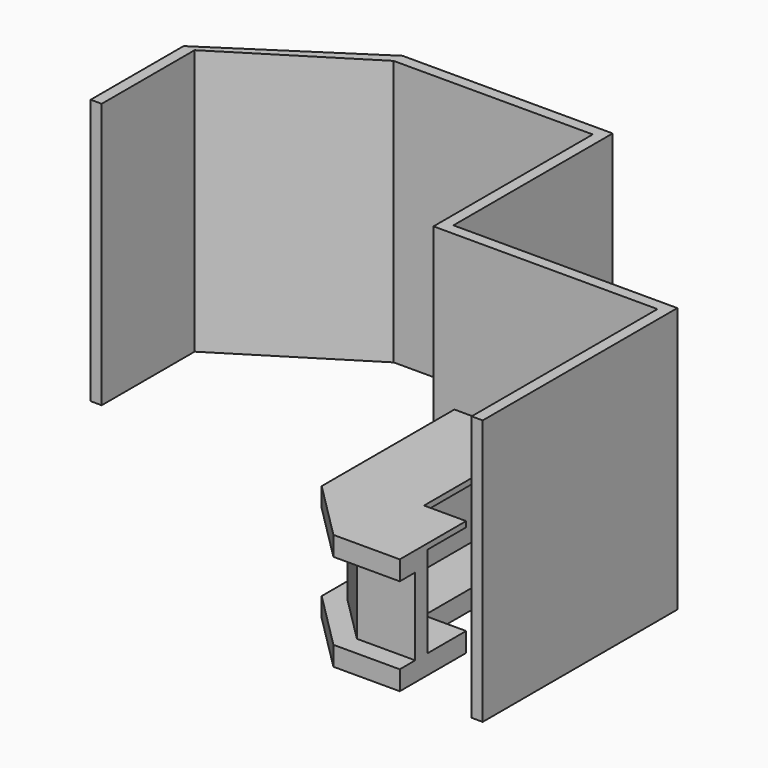
from build123d import *

# Parameters (mm, degrees)
F1_DEPTH = 2438.4
F3_DEPTH = 177.8
F5_DEPTH = 838.2
F7_DEPTH = 50.8
F9_DEPTH = 127


with BuildPart() as f1:
    # F0 (on Top) → F1 (new body)
    with BuildSketch(Plane.XY):
        Polygon((0, 2133.6), (0, 0), (101.6, 0), (101.6, 2235.2), (-1955.8, 2235.2), (-1955.8, 4064), (-3886.2, 4064), (-5207, 3200.4), (-5207, 2133.6), (-5105.4, 2133.6), (-5105.4, 3200.4), (-3886.2, 3962.4), (-2057.4, 3962.4), (-2057.4, 2133.6), align=None)
    extrude(amount=F1_DEPTH)


with BuildPart() as f3:
    # F2 (on Top) → F3 (new body)
    with BuildSketch(Plane.XY):
        Polygon((-1046.8153672641, 762), (-1046.8153672641, 2062.8153672641), (-1808.8153672641, 2062.8153672641), (-1808.8153672641, 538.8153672641), (-1270, 0), (-660.4, 0), (-660.4, 762), align=None)
    extrude(amount=F3_DEPTH)

    # F4 (on face) → F5 (join)
    with BuildSketch(Plane.XY.offset(177.8)):
        Polygon((-1491.3153672641, 2062.8153672641), (-1631.0153672641, 2062.8153672641), (-1631.0153672641, 612.4625386541), (-1196.3528286101, 177.8), (-660.4, 177.8), (-660.4, 317.5), (-1138.4871939465, 317.5), (-1491.3153672641, 670.3281733176), align=None)
    extrude(amount=F5_DEPTH)

    # F6 (on face) → F7 (join)
    with BuildSketch(Plane.XY.offset(1016)):
        Polygon((-1046.8153672641, 2062.8153672641), (-1808.8153672641, 2062.8153672641), (-1808.8153672641, 538.8153672641), (-1270, 0), (-660.4, 0), (-660.4, 762), (-1046.8153672641, 762), align=None)
    extrude(amount=F7_DEPTH)

    # F8 (on face) → F9 (join)
    with BuildSketch(Plane(origin=(0, 0, 1016), x_dir=(1, 0, 0), z_dir=(0, 0, -1))):
        Polygon((-1808.8153672641, -538.8153672641), (-1808.8153672641, -2062.8153672641), (-1631.0153672641, -2062.8153672641), (-1631.0153672641, -2043.7653672641), (-1789.7653672641, -2043.7653672641), (-1789.7653672641, -546.7061356274), (-1262.1092316368, -19.05), (-679.45, -19.05), (-679.45, -177.8), (-660.4, -177.8), (-660.4, 0), (-1270, 0), align=None)
    extrude(amount=F9_DEPTH)


solid = Compound([f1.part, f3.part])
